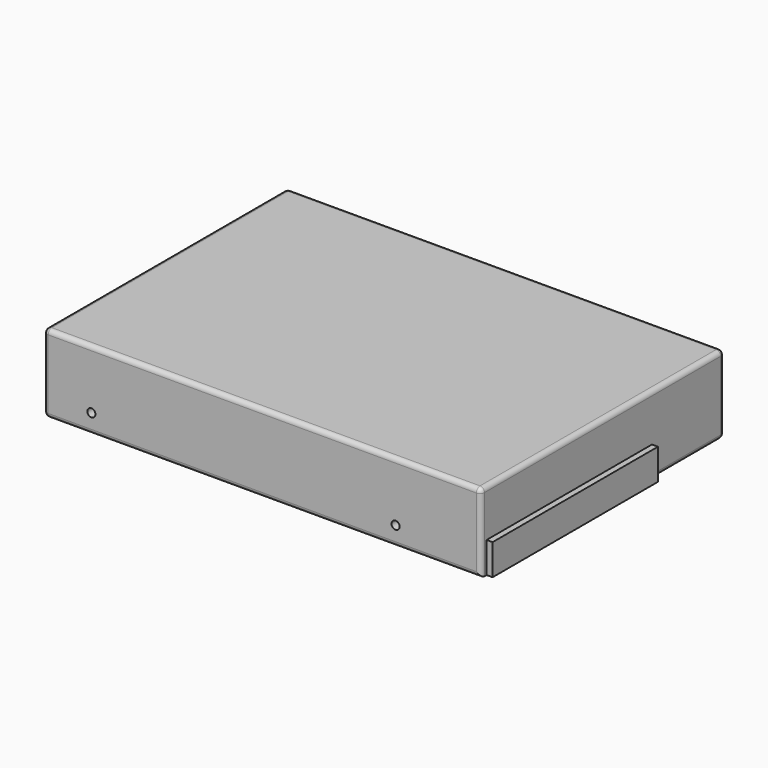
from build123d import *

# Parameters (mm, degrees)
F0_W           = 146
F0_H           = 101.6
F1_DEPTH       = 26.1
F5_D           = 2.7051
F5_DEPTH       = 3.8
F5_TIP         = 0.8126940303
F5_ON_F2_D     = 2.7051
F5_ON_F2_DEPTH = 3.8
F5_ON_F2_TIP   = 0.8126940303
F5_ON_F3_D     = 2.7051
F5_ON_F3_DEPTH = 3.8
F5_ON_F3_TIP   = 0.8126940303
F6_W           = 69.0162237734
F6_H           = 10.328435339
F7_DEPTH       = 2
F8_R           = 1.5


with BuildPart() as f1:
    # F0 (on Top) → F1 (new body)
    with BuildSketch(Plane.XY):
        Rectangle(F0_W, F0_H)
    extrude(amount=F1_DEPTH)

    # F5
    with Locations(Plane(origin=(0, 50.8, 0), x_dir=(-1, 0, 0), z_dir=(0, 1, 0))):
        with Locations((-44.5, 6.35), (57.1, 6.35)):
            Hole(F5_D / 2, depth=F5_DEPTH)
            with Locations((0, 0, -(F5_DEPTH + F5_TIP / 2))):  # 118° drill point
                Cone(0, F5_D / 2, F5_TIP, mode=Mode.SUBTRACT)

    # F5 on F2
    with Locations(Plane(origin=(0, 0, 0), x_dir=(1, 0, 0), z_dir=(0, 0, -1))):
        with Locations((-44.48, -47.62), (-12.73, -47.62), (31.72, -47.62), (31.72, 47.62), (-12.73, 47.62), (-44.48, 47.62)):
            Hole(F5_ON_F2_D / 2, depth=F5_ON_F2_DEPTH)
            with Locations((0, 0, -(F5_ON_F2_DEPTH + F5_ON_F2_TIP / 2))):  # 118° drill point
                Cone(0, F5_ON_F2_D / 2, F5_ON_F2_TIP, mode=Mode.SUBTRACT)

    # F5 on F3
    with Locations(Plane.XZ.offset(50.8)):
        with Locations((-57.1, 6.35), (44.5, 6.35)):
            Hole(F5_ON_F3_D / 2, depth=F5_ON_F3_DEPTH)
            with Locations((0, 0, -(F5_ON_F3_DEPTH + F5_ON_F3_TIP / 2))):  # 118° drill point
                Cone(0, F5_ON_F3_D / 2, F5_ON_F3_TIP, mode=Mode.SUBTRACT)

    # F6 (on face) → F7 (join)
    with BuildSketch(Plane.YZ.offset(73)):
        with Locations((-13.9085585251, 5.1642176695)):
            Rectangle(F6_W, F6_H)
    extrude(amount=F7_DEPTH)

    # F8
    f8_edges = [f1.edges().sort_by_distance(p)[0] for p in [
        (0, 50.8, 0),
        (0, 50.8, 26.1),
        (-73, 0, 26.1),
        (0, -50.8, 26.1),
        (73, 0, 26.1),
        (-73, 50.8, 13.05),
        (-73, -50.8, 13.05),
        (-73, 0, 0),
        (0, -50.8, 0),
        (73, 35.699777, 0),
        (73, -50.8, 13.05),
        (73, 50.8, 13.05),
    ]]
    fillet(f8_edges, radius=F8_R)


solid = f1.part
